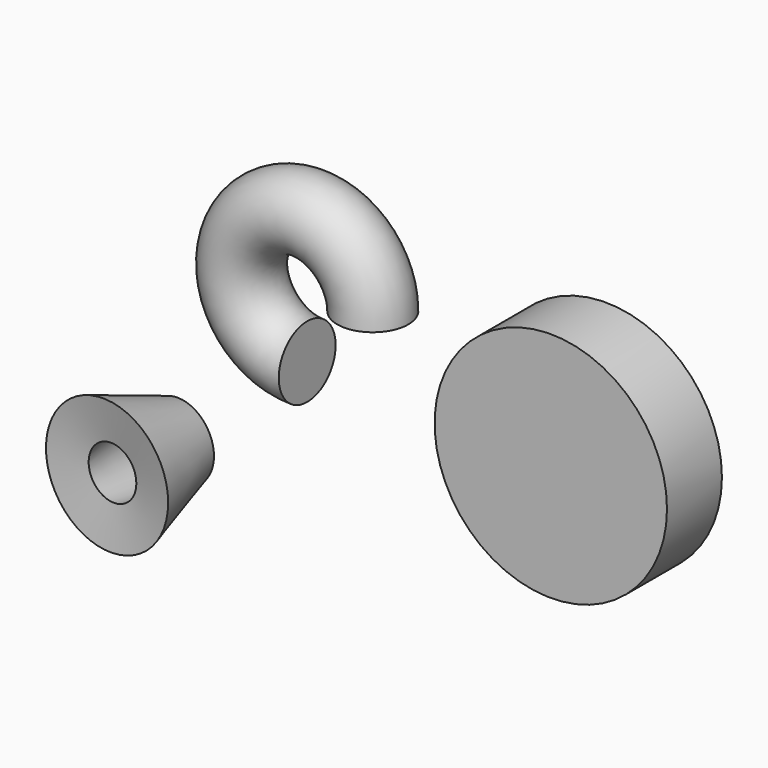
from build123d import *

# Parameters (mm, degrees)
F0_W     = 36.537992
F0_H     = 21.590633
F0_R     = 11.179722
F2_ANGLE = 270


with BuildPart() as f1:
    # F0 (on Top) → F1 (revolve)
    with BuildSketch(Plane.XY):
        with Locations((41.520446, 26.365479)):
            Rectangle(F0_W, F0_H)
    revolve(axis=Axis((23.25145, 26.365479, 0), (0, -1, 0)))


with BuildPart() as f2:
    # F0 (on Top) → F2 (revolve)
    with BuildSketch(Plane.XY):
        with Locations((-62.280677, 52.52336)):
            Circle(F0_R)
    revolve(axis=Axis((-82.910329, 50.982073, 0), (0, -1, 0)), revolution_arc=F2_ANGLE)


with BuildPart() as f3:
    # F0 (on Top) → F3 (revolve)
    with BuildSketch(Plane.XY):
        Polygon((-37.92697, -58.363846), (-44.619087, -31.986151), (-50.431952, -55.237599), align=None)
    revolve(axis=Axis((-57.490427, -43.404276, 0), (0.095561, 0.995424, 0)))


solid = Compound([f1.part, f2.part, f3.part])
